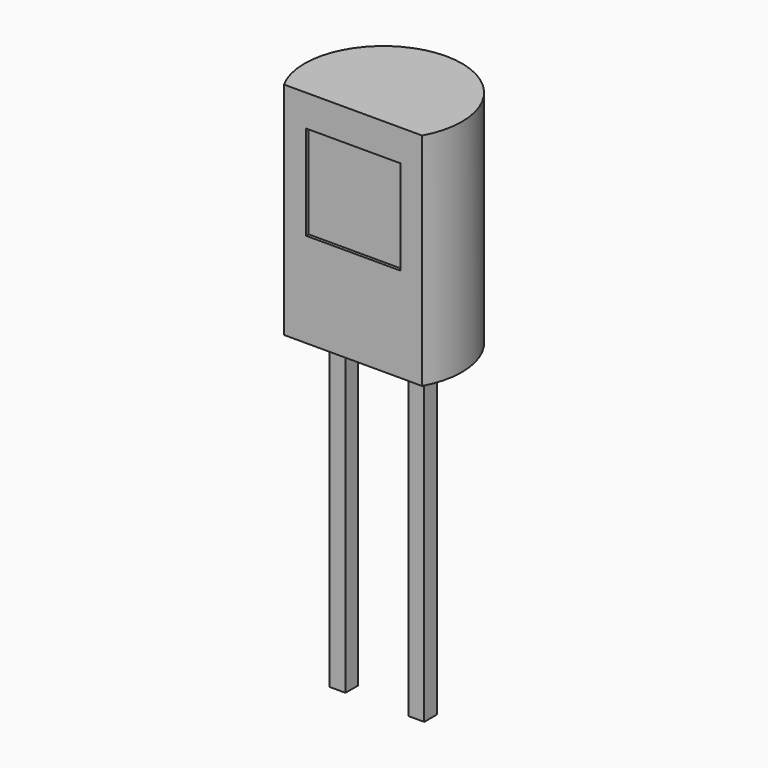
from build123d import *

# Parameters (mm, degrees)
PAD_DEPTH    = 7
SKETCH001_W  = 0.5
SKETCH001_H  = 0.5
PAD001_DEPTH = 10
SKETCH002_W  = 3
SKETCH002_H  = 3
POCKET_DEPTH = 0.1


with BuildPart() as part:
    # Sketch → Pad (new body)
    with BuildSketch(Plane.XY):
        with BuildLine():
            ThreePointArc((2.193171, -1.2), (0, 2.5), (-2.193171, -1.2))
            Line((-2.193171, -1.2), (2.193171, -1.2))
        make_face()
    extrude(amount=PAD_DEPTH)

    # Sketch001 (on Face3 of Pad) → Pad001 (join)
    with BuildSketch(Plane(origin=(0, 0, 0), x_dir=(1, 0, 0), z_dir=(0, 0, -1))):
        with Locations((-1.25, 0)):
            Rectangle(SKETCH001_W, SKETCH001_H)
        with Locations((1.25, 0)):
            Rectangle(SKETCH001_W, SKETCH001_H)
    extrude(amount=PAD001_DEPTH)

    # Sketch002 (on Face2 of Pad001) → Pocket (cut)
    with BuildSketch(Plane.XZ.offset(1.2)):
        with Locations((0, 4.5)):
            Rectangle(SKETCH002_W, SKETCH002_H)
    extrude(amount=-POCKET_DEPTH, mode=Mode.SUBTRACT)


solid = part.part
